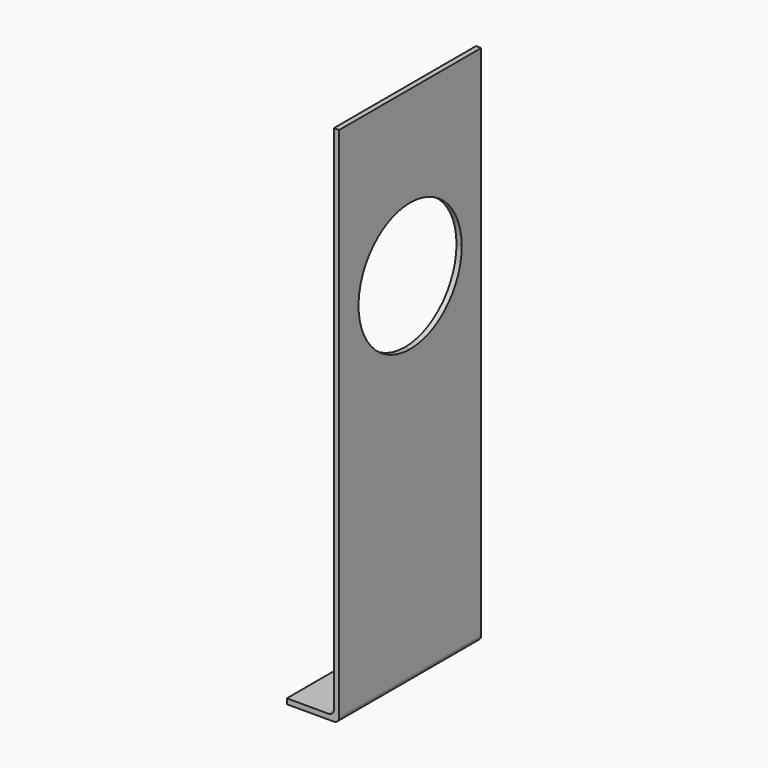
from build123d import *

# Parameters (mm, degrees)
F1_DEPTH = 170
F3_DEPTH = 5


with BuildPart() as f1:
    # F0 (on Front) → F1 (new body)
    with BuildSketch(Plane.XZ):
        with BuildLine():
            Line((-41.537401, 11.281251), (-41.537401, 506.281251))
            Line((-41.537401, 506.281251), (-46.537401, 506.281251))
            Line((-46.537401, 506.281251), (-46.537401, 16.281251))
            ThreePointArc((-46.537401, 16.281251), (-48.001867, 12.745717), (-51.537401, 11.281251))
            Line((-51.537401, 11.281251), (-91.537401, 11.281251))
            Line((-91.537401, 11.281251), (-91.537401, 6.281251))
            Line((-91.537401, 6.281251), (-46.537401, 6.281251))
            ThreePointArc((-46.537401, 6.281251), (-43.001867, 7.745717), (-41.537401, 11.281251))
        make_face()
    extrude(amount=F1_DEPTH)

    # F2 (on face) → F3 (cut)
    with BuildSketch(Plane.YZ.offset(-41.537401)):
        with BuildLine():
            ThreePointArc((-23.295615, 348.865511), (-128.631589, 392.497101), (-85, 287.161126))
            ThreePointArc((-85, 287.161126), (-41.368411, 305.233922), (-23.295615, 348.865511))
        make_face()
    extrude(amount=-F3_DEPTH, mode=Mode.SUBTRACT)


solid = f1.part
